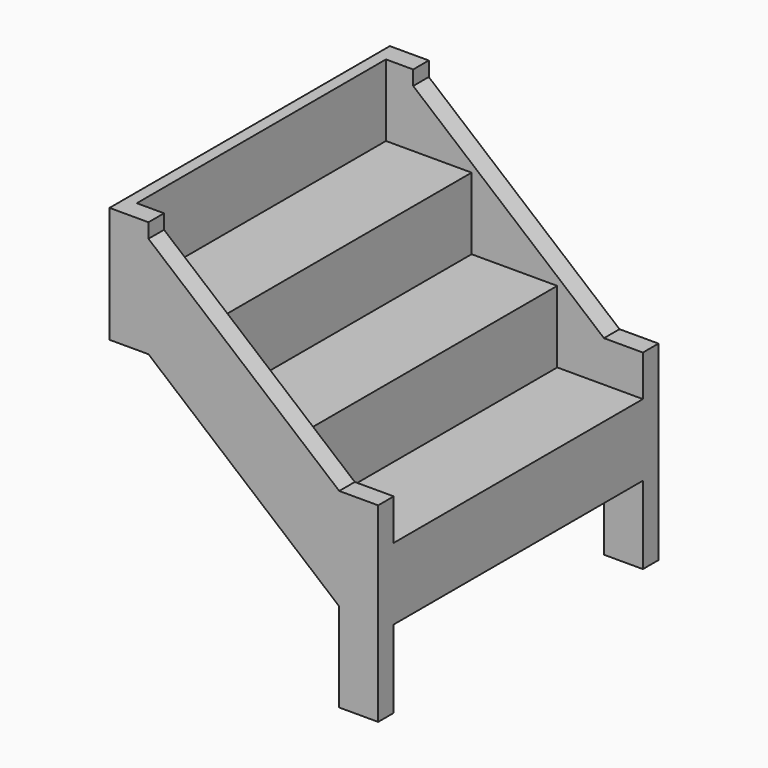
from build123d import *

# Parameters (mm, degrees)
F0_W     = 30
F0_H     = 154.5
F0_H_2   = 30
F0_W_2   = 190
F0_H_3   = 184.5
F1_DEPTH = 800
F3_DEPTH = 50
F5_DEPTH = 50


with BuildPart() as f1:
    # F0 (on Front) → F1 (new body)
    with BuildSketch(Plane.XZ):
        with Locations((-15, 77.25)):
            Rectangle(F0_W, F0_H)
        with Locations((-15, 169.5)):
            Rectangle(F0_W, F0_H_2)
        with Locations((-125, 169.5)):
            Rectangle(F0_W_2, F0_H_2)
        with Locations((-235, 169.5)):
            Rectangle(F0_W, F0_H_2)
        with Locations((-235, 261.75)):
            Rectangle(F0_W, F0_H)
        with Locations((-235, 354)):
            Rectangle(F0_W, F0_H_2)
        with Locations((-345, 354)):
            Rectangle(F0_W_2, F0_H_2)
        with Locations((-455, 354)):
            Rectangle(F0_W, F0_H_2)
        with Locations((-455, 446.25)):
            Rectangle(F0_W, F0_H)
        with Locations((-455, 538.5)):
            Rectangle(F0_W, F0_H_2)
        with Locations((-565, 538.5)):
            Rectangle(F0_W_2, F0_H_2)
        with Locations((-675, 538.5)):
            Rectangle(F0_W, F0_H_2)
        with Locations((-675, 645.75)):
            Rectangle(F0_W, F0_H_3)
    extrude(amount=F1_DEPTH)

    # F2 (on face) → F3 (join)
    with BuildSketch(Plane.XZ.offset(800)):
        Polygon((-690, 738), (-690, 523.5), (-590, 439.636364), (-590, 700.658275), (-590, 738), align=None)
        Polygon((-590, 439.636364), (-690, 523.5), (-690, 439.636364), align=None)
        Polygon((-590, 700.658275), (-590, 439.636364), (-100, 28.704545), (-100, 289.726456), align=None)
        Polygon((-100, 289.726456), (-100, 28.704545), (-100, -200), (0, -200), (0, 289.726456), align=None)
    extrude(amount=F3_DEPTH)

    # F4 (on face) → F5 (join)
    with BuildSketch(Plane(origin=(0, 0, 0), x_dir=(-1, 0, 0), z_dir=(0, 1, 0))):
        Polygon((0, 289.726456), (0, -200), (100, -200), (100, 28.704545), (100, 289.726456), align=None)
        Polygon((100, 289.726456), (100, 28.704545), (590, 439.636364), (590, 700.658275), align=None)
        Polygon((590, 700.658275), (590, 439.636364), (690, 439.636364), (690, 738), (590, 738), align=None)
    extrude(amount=F5_DEPTH)


solid = f1.part
